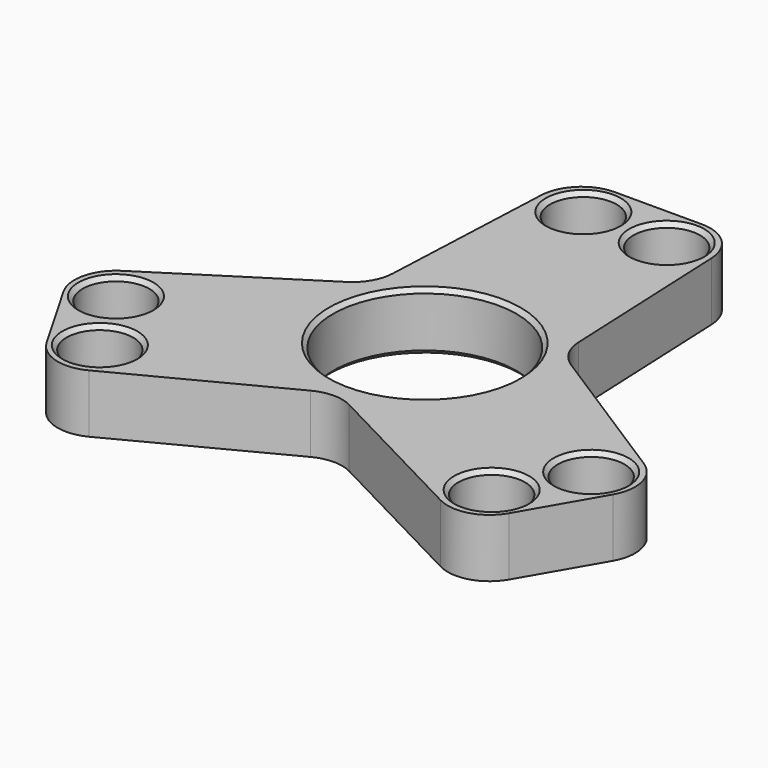
from build123d import *

# Parameters (mm, degrees)
F0_R     = 4
F0_R_2   = 11
F1_DEPTH = 3.5
F2_SIZE  = 0.5
F3_R     = 5


with BuildPart() as f1:
    # F0 (on Top) → F1 (new body, symmetric)
    with BuildSketch(Plane.XY):
        with BuildLine():
            ThreePointArc((-11.25833, 6.5), (0, 13), (11.25833, 6.5))
            Line((11.25833, 6.5), (10, 35))
            Line((10, 35), (-10, 35))
            Line((-10, 35), (-11.25833, 6.5))
        make_face()
        with Locations((-5, 30)):
            Circle(F0_R, mode=Mode.SUBTRACT)
        with Locations((5, 30)):
            Circle(F0_R, mode=Mode.SUBTRACT)
        with BuildLine():
            ThreePointArc((0, -13), (9.192388, -9.192388), (13, 0))
            ThreePointArc((13, 0), (12.557036, 3.364648), (11.25833, 6.5))
            ThreePointArc((11.25833, 6.5), (0, 13), (-11.25833, 6.5))
            ThreePointArc((-11.25833, 6.5), (-11.25833, -6.5), (0, -13))
        make_face()
        Circle(F0_R_2, mode=Mode.SUBTRACT)
        with BuildLine():
            Line((-25.310889, -26.160254), (0, -13))
            ThreePointArc((0, -13), (-11.25833, -6.5), (-11.25833, 6.5))
            Line((-11.25833, 6.5), (-35.310889, -8.839746))
            Line((-35.310889, -8.839746), (-25.310889, -26.160254))
        make_face()
        with Locations((-23.480762, -19.330127)):
            Circle(F0_R, mode=Mode.SUBTRACT)
        with Locations((-28.480762, -10.669873)):
            Circle(F0_R, mode=Mode.SUBTRACT)
        with BuildLine():
            ThreePointArc((11.25833, 6.5), (12.557036, 3.364648), (13, 0))
            ThreePointArc((13, 0), (9.192388, -9.192388), (0, -13))
            Line((0, -13), (25.310889, -26.160254))
            Line((25.310889, -26.160254), (35.310889, -8.839746))
            Line((35.310889, -8.839746), (11.25833, 6.5))
        make_face()
        with Locations((23.480762, -19.330127)):
            Circle(F0_R, mode=Mode.SUBTRACT)
        with Locations((28.480762, -10.669873)):
            Circle(F0_R, mode=Mode.SUBTRACT)
    extrude(amount=F1_DEPTH, both=True)

    # F2
    f2_edges = [f1.edges().sort_by_distance(p)[0] for p in [
        (-9, 30, 3.5),
        (1, 30, 3.5),
        (-11, 0, 3.5),
        (-32.480762, -10.669873, 3.5),
        (-27.480762, -19.330127, 3.5),
        (24.480762, -10.669873, 3.5),
        (19.480762, -19.330127, 3.5),
        (-11, 0, -3.5),
        (-27.480762, -19.330127, -3.5),
        (-32.480762, -10.669873, -3.5),
        (19.480762, -19.330127, -3.5),
        (24.480762, -10.669873, -3.5),
        (1, 30, -3.5),
        (-9, 30, -3.5),
    ]]
    chamfer(f2_edges, length=F2_SIZE)

    # F3
    f3_edges = [f1.edges().sort_by_distance(p)[0] for p in [
        (-25.310889, -26.160254, 0),
        (-35.310889, -8.839746, 0),
        (25.310889, -26.160254, 0),
        (35.310889, -8.839746, 0),
        (10, 35, 0),
        (-10, 35, 0),
        (-11.25833, 6.5, 0),
        (11.25833, 6.5, 0),
        (0, -13, 0),
    ]]
    fillet(f3_edges, radius=F3_R)


solid = f1.part
